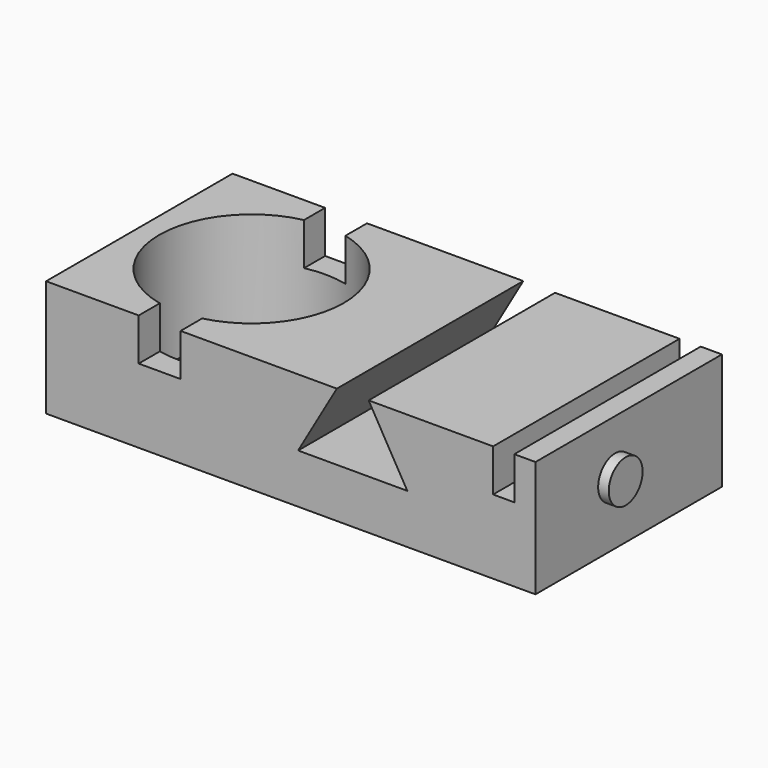
from build123d import *

# Parameters (mm, degrees)
F0_W     = 21.1988506515
F0_H     = 22
F0_R     = 8.7104848274
F1_DEPTH = 11
F2_DEPTH = 25
F3_W     = 2
F3_H     = 22
F4_DEPTH = 4
F6_DEPTH = 22.001
F7_R     = 2
F8_DEPTH = 1


with BuildPart() as f1:
    # F0 (on Top) → F1 (new body)
    with BuildSketch(Plane.XY):
        with Locations((0, -0.4590692324)):
            Rectangle(F0_W, F0_H)
        with Locations((0, -0.4590692324)):
            Circle(F0_R, mode=Mode.SUBTRACT)
    extrude(amount=-F1_DEPTH)

    # F2 (add): a face of the model
    f2_faces = [f1.faces().sort_by_distance(p)[0] for p in [
        (10.5994253258, -0.4590692324, -5.5),
    ]]
    extrude(f2_faces, amount=F2_DEPTH)

    # F3 (on face) → F4 (cut)
    with BuildSketch(Plane.XY):
        with Locations((32.5994253258, -0.4590692324)):
            Rectangle(F3_W, F3_H)
        with BuildLine():
            Line((-1.8565698992, -11.4590692324), (2.0946341101, -11.4590692324))
            Line((2.0946341101, -11.4590692324), (2.0946341101, -8.9139526659))
            ThreePointArc((2.0946341101, -8.9139526659), (0.1222177802, -9.168696592), (-1.8565698992, -8.9693979063))
            Line((-1.8565698992, -8.9693979063), (-1.8565698992, -11.4590692324))
        make_face()
        with BuildLine():
            Line((2.0946341101, 7.995814201), (2.0946341101, 10.5409307676))
            Line((2.0946341101, 10.5409307676), (-1.8565698992, 10.5409307676))
            Line((-1.8565698992, 10.5409307676), (-1.8565698992, 8.0512594415))
            ThreePointArc((-1.8565698992, 8.0512594415), (0.1222177802, 8.2505581271), (2.0946341101, 7.995814201))
        make_face()
    extrude(amount=-F4_DEPTH, mode=Mode.SUBTRACT)

    # F5 (on face) → F6 (cut, through all)
    with BuildSketch(Plane.XZ.offset(11.4590692324)):
        Polygon((19.8470297179, 0), (16.8470297179, 0), (13.192070817, -6.330574516), (23.5019886189, -6.330574516), align=None)
    extrude(amount=-F6_DEPTH, mode=Mode.SUBTRACT)

    # F7 (on face) → F8 (join)
    with BuildSketch(Plane.YZ.offset(35.5994253258)):
        with Locations((-2.064286964, -5.0933435559)):
            Circle(F7_R)
    extrude(amount=F8_DEPTH)


solid = f1.part
